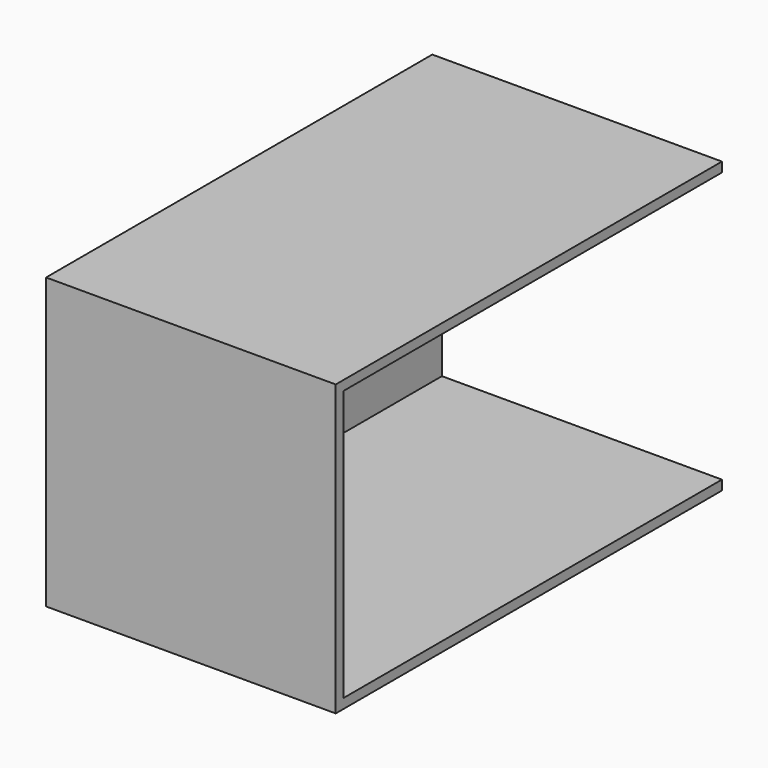
from build123d import *

# Parameters (mm, degrees)
F0_W     = 76.2
F0_H     = 76.2
F1_DEPTH = 127
F2_T     = -2.54


with BuildPart() as f1:
    # F0 (on Front) → F1 (new body)
    with BuildSketch(Plane.XZ):
        with Locations((-38.1, 38.1)):
            Rectangle(F0_W, F0_H)
    extrude(amount=F1_DEPTH)

    # F2
    f2_openings = [f1.faces().sort_by_distance(p)[0] for p in [
        (-38.1, 0, 38.1),
        (0, -63.5, 38.1),
    ]]
    offset(amount=F2_T, openings=f2_openings)


solid = f1.part
